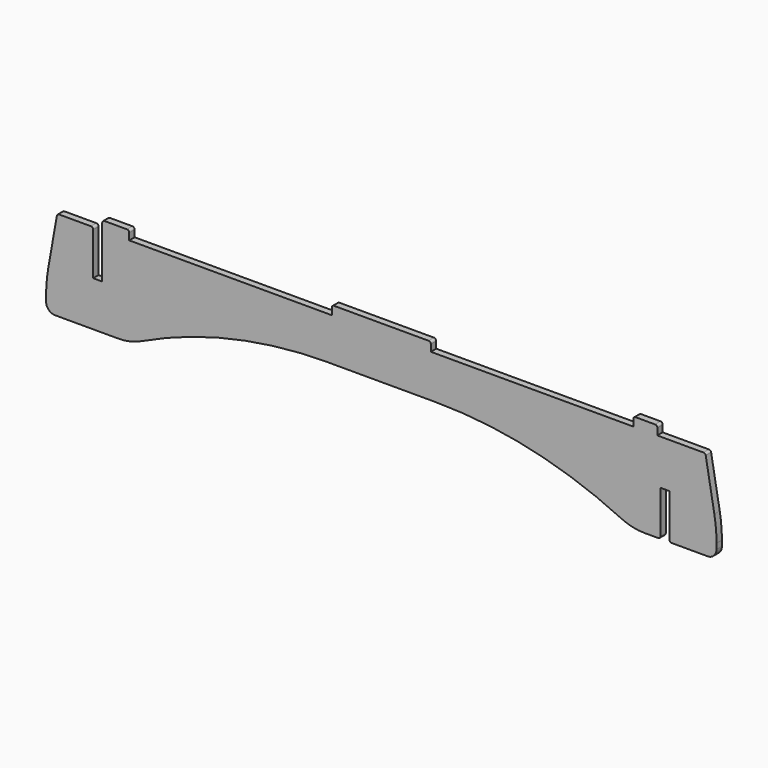
from build123d import *

# Parameters (mm, degrees)
F1_DEPTH = 4.7625


with BuildPart() as f1:
    # F0 (on Front) → F1 (new body)
    with BuildSketch(Plane.XZ):
        with BuildLine():
            Line((-204.7875, 0), (-227.267929, 0))
            ThreePointArc((-227.267929, 0), (-228.288355, -0.371404), (-228.831312, -1.311834))
            Line((-228.831312, -1.311834), (-234.894202, -35.696193))
            ThreePointArc((-234.894202, -35.696193), (-236.051116, -44.483825), (-236.437734, -53.338848))
            Line((-236.437734, -53.338848), (-236.437734, -57.15))
            ThreePointArc((-236.437734, -57.15), (-234.577862, -61.640128), (-230.087734, -63.5))
            Line((-230.087734, -63.5), (-185.637734, -63.5))
            ThreePointArc((-185.637734, -63.5), (-177.234236, -62.56169), (-169.244653, -59.792977))
            ThreePointArc((-169.244653, -59.792977), (-105.327987, -37.643273), (-38.1, -30.136794))
            Line((-38.1, -30.136794), (0, -30.136794))
            Line((0, -30.136794), (38.1, -30.136794))
            ThreePointArc((38.1, -30.136794), (105.327987, -37.643273), (169.244653, -59.792977))
            ThreePointArc((169.244653, -59.792977), (177.234236, -62.56169), (185.637734, -63.5))
            Line((185.637734, -63.5), (195.2625, -63.5))
            ThreePointArc((195.2625, -63.5), (196.385032, -63.035032), (196.85, -61.9125))
            Line((196.85, -61.9125), (196.85, -31.75))
            Line((196.85, -31.75), (203.2, -31.75))
            Line((203.2, -31.75), (203.2, -61.9125))
            ThreePointArc((203.2, -61.9125), (203.664968, -63.035032), (204.7875, -63.5))
            Line((204.7875, -63.5), (230.087734, -63.5))
            ThreePointArc((230.087734, -63.5), (234.577862, -61.640128), (236.437734, -57.15))
            Line((236.437734, -57.15), (236.437734, -53.338848))
            ThreePointArc((236.437734, -53.338848), (236.051116, -44.483825), (234.894202, -35.696193))
            Line((234.894202, -35.696193), (228.831312, -1.311834))
            ThreePointArc((228.831312, -1.311834), (228.288355, -0.371404), (227.267929, 0))
            Line((227.267929, 0), (194.670816, 0))
            Line((194.670816, 0), (194.670816, 4.7625))
            ThreePointArc((194.670816, 4.7625), (194.205848, 5.885032), (193.083316, 6.35))
            Line((193.083316, 6.35), (179.3875, 6.35))
            ThreePointArc((179.3875, 6.35), (178.264968, 5.885032), (177.8, 4.7625))
            Line((177.8, 4.7625), (177.8, 0))
            Line((177.8, 0), (34.925, 0))
            Line((34.925, 0), (0, 0))
            Line((0, 0), (-34.925, 0))
            Line((-34.925, 0), (-177.8, 0))
            Line((-177.8, 0), (-177.8, 4.7625))
            ThreePointArc((-177.8, 4.7625), (-178.264968, 5.885032), (-179.3875, 6.35))
            Line((-179.3875, 6.35), (-195.2625, 6.35))
            ThreePointArc((-195.2625, 6.35), (-196.385032, 5.885032), (-196.85, 4.7625))
            Line((-196.85, 4.7625), (-196.85, -31.75))
            Line((-196.85, -31.75), (-203.2, -31.75))
            Line((-203.2, -31.75), (-203.2, -1.5875))
            ThreePointArc((-203.2, -1.5875), (-203.664968, -0.464968), (-204.7875, 0))
        make_face()
        with BuildLine():
            Line((-34.925, 4.7625), (-34.925, 0))
            Line((-34.925, 0), (0, 0))
            Line((0, 0), (34.925, 0))
            Line((34.925, 0), (34.925, 4.7625))
            ThreePointArc((34.925, 4.7625), (34.460032, 5.885032), (33.3375, 6.35))
            Line((33.3375, 6.35), (0, 6.35))
            Line((0, 6.35), (-33.3375, 6.35))
            ThreePointArc((-33.3375, 6.35), (-34.460032, 5.885032), (-34.925, 4.7625))
        make_face()
    extrude(amount=F1_DEPTH)


solid = f1.part
